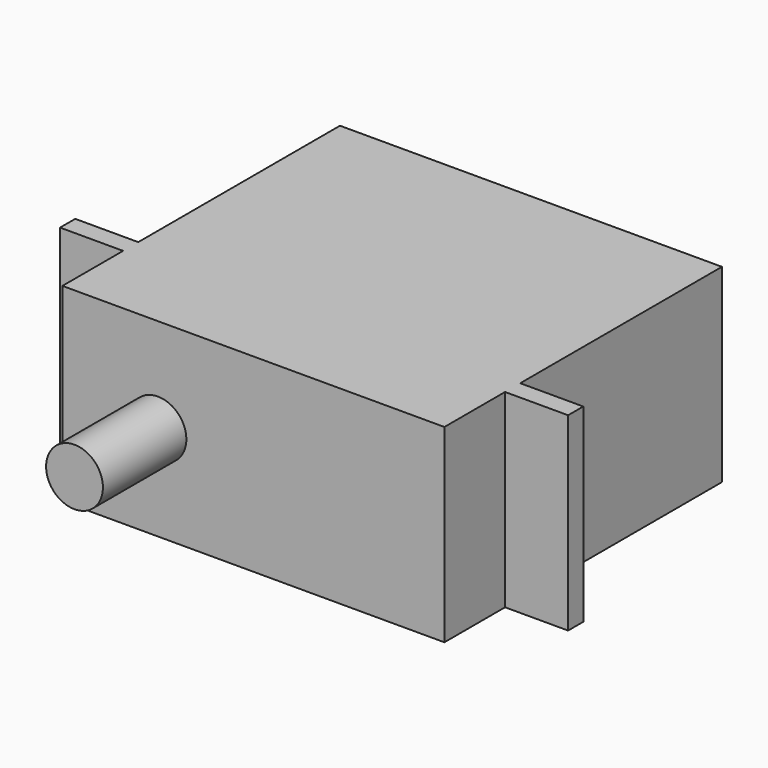
from build123d import *

# Parameters (mm, degrees)
F0_W     = 40.3
F0_H     = 20
F1_DEPTH = 36.6
F3_W     = 6.65
F3_H     = 20
F4_DEPTH = 2
F6_R     = 3
F7_DEPTH = 11


with BuildPart() as f1:
    # F0 (on Front) → F1 (new body)
    with BuildSketch(Plane.XZ):
        Rectangle(F0_W, F0_H)
    extrude(amount=-F1_DEPTH)

    # F3 (on offset) → F4 (join)
    with BuildSketch(Plane(origin=(0, 10, 0), x_dir=(-1, 0, 0), z_dir=(0, 1, 0))):
        with Locations((-23.475, 0)):
            Rectangle(F3_W, F3_H)
        with Locations((23.475, 0)):
            Rectangle(F3_W, F3_H)
    extrude(amount=-F4_DEPTH)

    # F6 (on offset) → F7 (join, through all)
    with BuildSketch(Plane(origin=(0, -11, 0), x_dir=(-1, 0, 0), z_dir=(0, 1, 0))):
        with Locations((10.075, 0)):
            Circle(F6_R)
    extrude(amount=F7_DEPTH)


solid = f1.part
